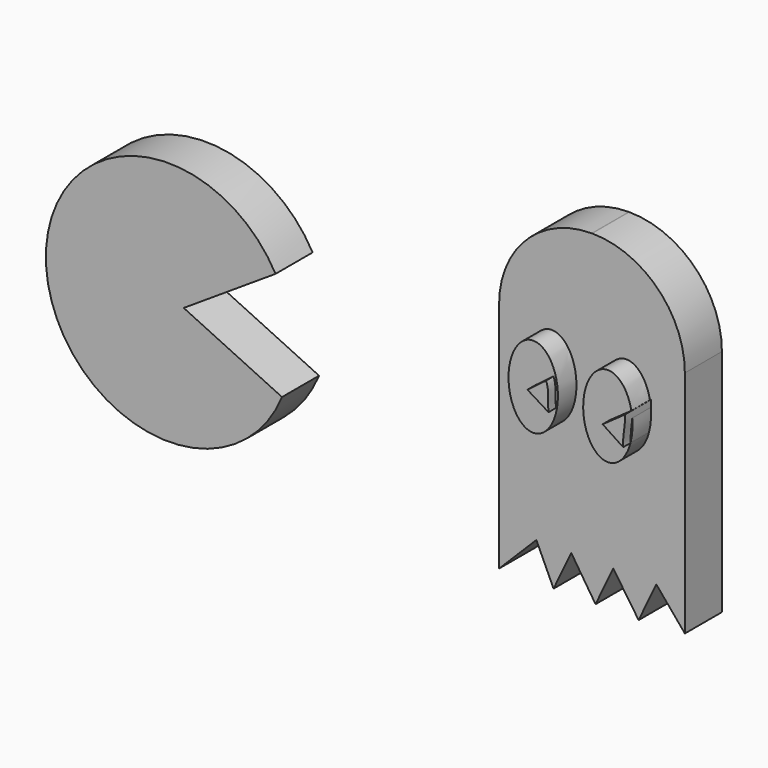
from build123d import *

# Parameters (mm, degrees)
F1_DEPTH = 12.7
F3_DEPTH = 19.05
F5_DEPTH = 21.59


with BuildPart() as f1:
    # F0 (on Front) → F1 (new body)
    with BuildSketch(Plane.XZ):
        with BuildLine():
            Line((-56.667093, -1.500984), (-31.481724, 14.912394))
            ThreePointArc((-31.481724, 14.912394), (-94.398652, -3.535317), (-29.714329, -14.249616))
            Line((-29.714329, -14.249616), (-56.667093, -1.500984))
        make_face()
        with BuildLine():
            Line((55.336218, 52.890558), (55.1973, 52.890558))
            ThreePointArc((55.1973, 52.890558), (37.236788, 45.451071), (29.7973, 27.490558))
            Line((29.7973, 27.490558), (29.7973, -35.403918))
            Line((29.7973, -35.403918), (29.7973, -36.294021))
            Line((29.7973, -36.294021), (40.027231, -26.05786))
            Line((40.027231, -26.05786), (44.7366, -36.294021))
            Line((44.7366, -36.294021), (49.578294, -26.05786))
            Line((49.578294, -26.05786), (56.254052, -36.294021))
            Line((56.254052, -36.294021), (61.095746, -26.05786))
            Line((61.095746, -26.05786), (68.0599, -36.294021))
            Line((68.0599, -36.294021), (72.901594, -26.05786))
            Line((72.901594, -26.05786), (80.736218, -35.403918))
            Line((80.736218, -35.403918), (80.736218, 27.490558))
            ThreePointArc((80.736218, 27.490558), (73.29673, 45.451071), (55.336218, 52.890558))
        make_face()
    extrude(amount=F1_DEPTH)

    # F2 (on Front) → F3 (join)
    with BuildSketch(Plane.XZ):
        with BuildLine():
            add(Edge.make_bspline(
                [(44.237684, 3.76052), (55.96965, 3.76052), (50.103667, 20.44991), (44.237684, 37.139299), (38.371702, 20.44991), (32.505719, 3.76052), (44.237684, 3.76052)],
                knots=[0, 0, 0, 2.094395, 2.094395, 4.18879, 4.18879, 6.283185, 6.283185, 6.283185], degree=2, weights=[1, 0.5, 1, 0.5, 1, 0.5, 1]))
        make_face()
        with BuildLine():
            add(Edge.make_bspline(
                [(64.710006, 3.315472), (76.441971, 3.315472), (70.575989, 20.004861), (64.710006, 36.694251), (58.844023, 20.004861), (52.978041, 3.315472), (64.710006, 3.315472)],
                knots=[0, 0, 0, 2.094395, 2.094395, 4.18879, 4.18879, 6.283185, 6.283185, 6.283185], degree=2, weights=[1, 0.5, 1, 0.5, 1, 0.5, 1]))
        make_face()
    extrude(amount=F3_DEPTH)

    # F4 (on Front) → F5 (join)
    with BuildSketch(Plane.XZ):
        with BuildLine():
            add(Edge.make_bspline(
                [(49.78234, 19.181514), (50.765101, 16.963683), (50.171696, 14.14503), (50.468396, 11.771427)],
                knots=[0, 0, 0, 0, 7.441778, 7.441778, 7.441778, 7.441778], degree=3))
            Line((49.78234, 19.181514), (44.682741, 15.331832))
            Line((44.682741, 15.331832), (50.468396, 11.771427))
        make_face()
        with BuildLine():
            add(Edge.make_bspline(
                [(71.385764, 18.002136), (71.682464, 15.628533), (70.644017, 12.364828), (70.940718, 9.991226)],
                knots=[0, 0, 0, 0, 8.023263, 8.023263, 8.023263, 8.023263], degree=3))
            Line((71.385764, 18.002136), (65.303417, 13.699983))
            Line((65.303417, 13.699983), (70.940718, 9.991226))
        make_face()
    extrude(amount=F5_DEPTH)


solid = f1.part
